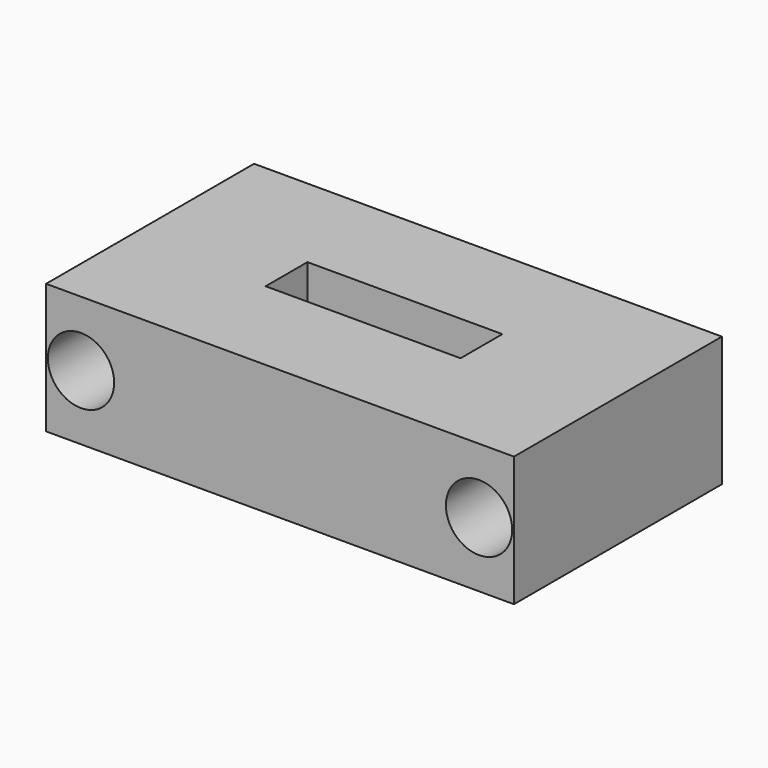
from build123d import *

# Parameters (mm, degrees)
F0_W     = 45.72
F0_H     = 25.4
F0_W_2   = 19.05
F0_H_2   = 5.1054
F1_DEPTH = 12.7
F3_D     = 6.477


with BuildPart() as f1:
    # F0 (on Top) → F1 (new body)
    with BuildSketch(Plane.XY):
        Rectangle(F0_W, F0_H)
        Rectangle(F0_W_2, F0_H_2, mode=Mode.SUBTRACT)
    extrude(amount=F1_DEPTH)

    # F3 (through all)
    with Locations(Plane.XZ.offset(12.7)):
        with Locations((-19.446875, 6.35), (19.446875, 6.35)):
            Hole(F3_D / 2)


solid = f1.part
